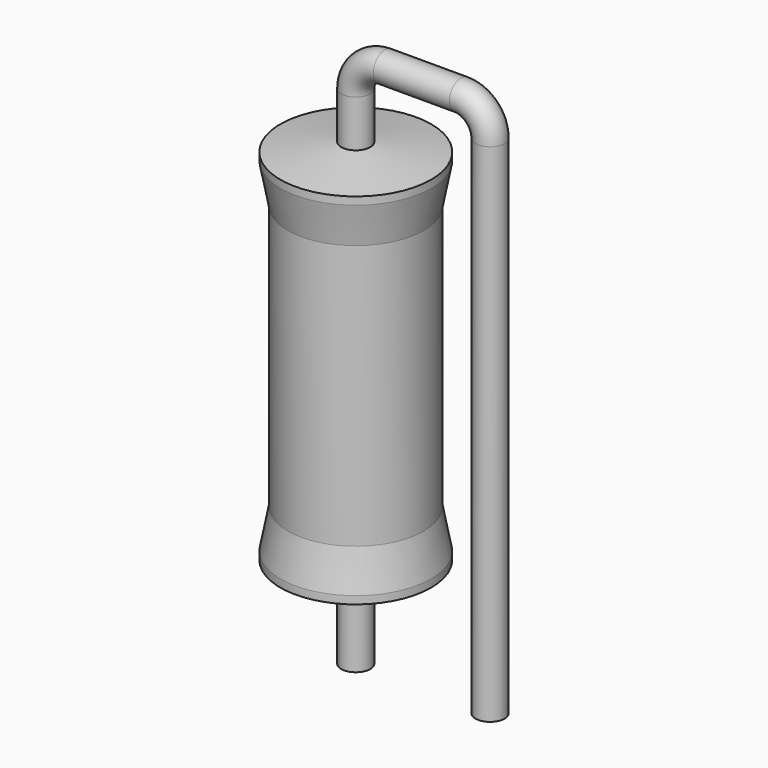
from build123d import *

# Parameters (mm, degrees)
SKETCH_R = 0.55


with BuildPart() as sweep_body:
    # Sweep: sweep along a path in Sketch001
    with BuildLine(Plane.XZ) as sweep_path:
        Line((0, -3), (0, 16.15))
        ThreePointArc((0, 16.15), (0.322185, 16.92782), (1.100008, 17.25))
        Line((1.100008, 17.25), (3.98, 17.25))
        ThreePointArc((3.98, 17.25), (4.757817, 16.927817), (5.08, 16.15))
        Line((5.08, 16.15), (5.08, -3))
    # Sketch → Sweep (sweep)
    with BuildSketch(Plane.XY.offset(-2)):
        Circle(SKETCH_R)
    sweep(path=sweep_path.line)


with BuildPart() as revolution:
    # Sketch002 → Revolution (revolve)
    with BuildSketch(Plane.XZ):
        Polygon((0, 0.1), (0, 14.4), (0.4125, 14.4), (2.85, 14.0425), (2.85, 13.75), (2.565, 12.255), (2.565, 2.245), (2.85, 0.75), (2.85, 0.4575), (0.4125, 0.1), align=None)
    revolve(axis=Axis((0, 0, 0), (0, 0, 1)))


solid = Compound([sweep_body.part, revolution.part])
